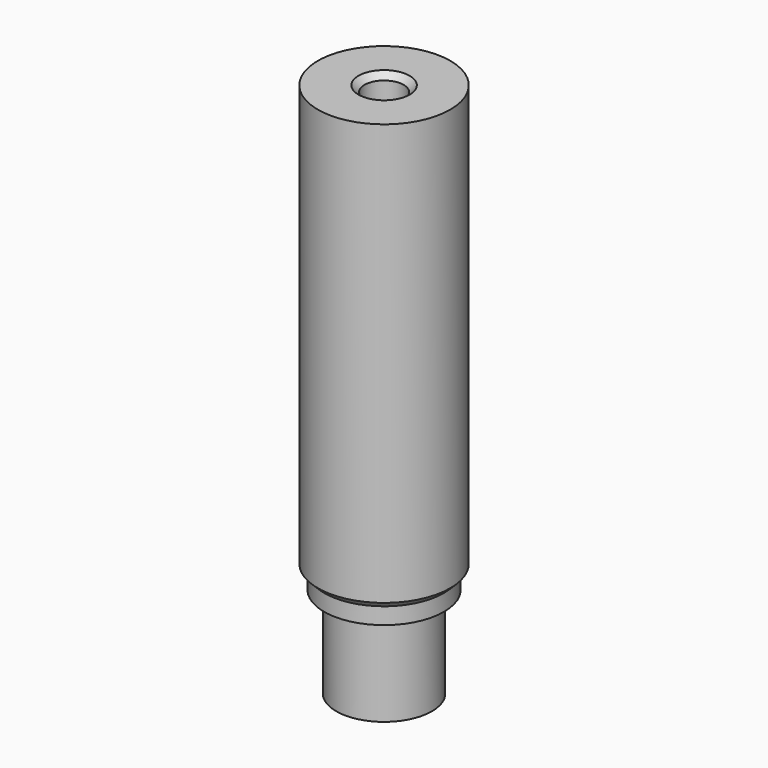
from build123d import *

# Parameters (mm, degrees)
CHAMFER_SIZE = 1


with BuildPart() as part:
    # Sketch → Revolution (revolve)
    with BuildSketch(Plane.XZ):
        Polygon((3.25, 70), (11, 70), (11, 0), (9.95, -1.05), (9.95, -3.8), (7.95, -3.8), (7.95, -19), (3.25, -19), align=None)
    revolve(axis=Axis((0, 0, 0), (0, 0, 1)))

    # Chamfer
    chamfer_edges = [part.edges().sort_by_distance(p)[0] for p in [
        (-3.25, 0, 70),
    ]]
    chamfer(chamfer_edges, length=CHAMFER_SIZE)


solid = part.part
